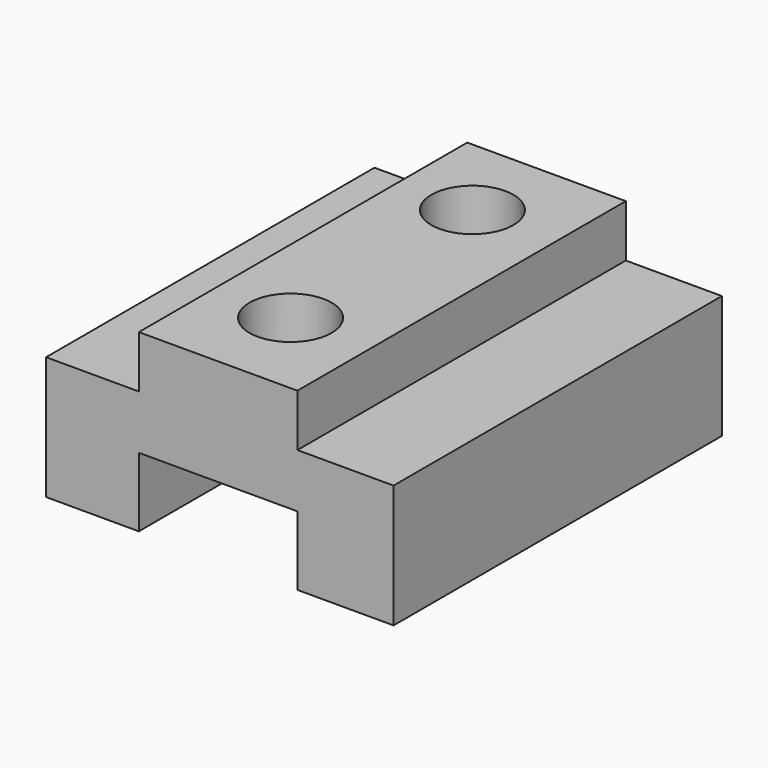
from build123d import *

# Parameters (mm, degrees)
F1_DEPTH = 50
F3_D     = 10
F4_D     = 10


with BuildPart() as f1:
    # F0 (on Front) → F1 (new body)
    with BuildSketch(Plane.XZ):
        Polygon((-45.584108, 30.324244), (-45.584108, 15.324244), (-34.282739, 15.324244), (-34.282739, 23.748901), (-14.967671, 23.748901), (-14.967671, 15.324244), (-3.255342, 15.324244), (-3.255342, 30.324244), (-14.967671, 30.324244), (-14.967671, 36.694106), (-34.282739, 36.694106), (-34.282739, 30.324244), align=None)
    extrude(amount=F1_DEPTH)

    # F3 (through all)
    with Locations(Plane.XY.offset(36.694106)):
        with Locations((-25.230138, -10.524154)):
            Hole(F3_D / 2)

    # F4 (through all)
    with Locations(Plane.XY.offset(36.694106)):
        with Locations((-24.854114, -38.68451)):
            Hole(F4_D / 2)


solid = f1.part
